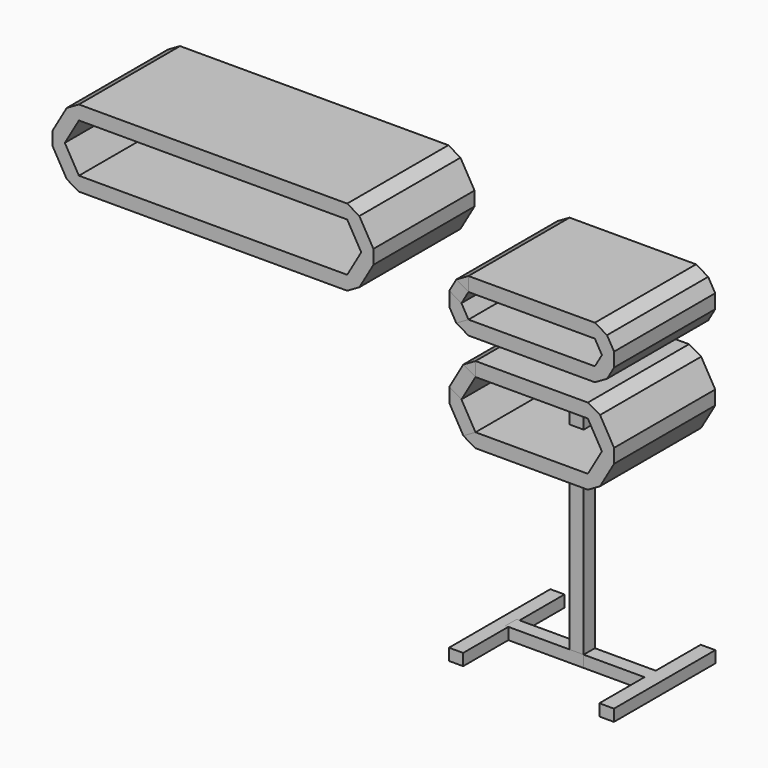
from build123d import *

# Parameters (mm, degrees)
F0_W      = 30
F0_H      = 15
F0_W_2    = 270
F0_H_2    = 30
F2_DEPTH  = 270
F3_W      = 30
F3_H      = 30
F4_DEPTH  = 600
F5_W      = 30.2779739723
F5_H      = 30
F5_H_2    = 120.6070542336
F5_H_3    = 120
F6_DEPTH  = 25
F5_W_2    = 129.9923121929
F5_W_3    = 31.1954915524
F7_DEPTH  = 167
F8_DEPTH  = 270
F0_W_3    = 120
F9_DEPTH  = 270
F0_W_4    = 573.0000723706
F10_DEPTH = 270


with BuildPart() as f2:
    # F0 (on Front) → F2 (new body)
    with BuildSketch(Plane.XZ):
        Polygon((270, -81.9615242271), (295.9807621135, -66.9615242271), (270, -51.9615242271), align=None)
        Polygon((270, 0), (295.9807621135, 15), (270, 30), align=None)
        Polygon((150, -81.9615242271), (270, -81.9615242271), (270, -51.9615242271), (240, -51.9615242271), (210, -51.9615242271), (180, -51.9615242271), (150, -51.9615242271), (150, -66.9615242271), align=None)
        with Locations((135, -59.4615242271)):
            Rectangle(F0_W, F0_H)
        Polygon((285, -25.9807621135), (310.9807621135, -40.9807621135), (310.9807621135, -10.9807621135), align=None)
        Polygon((0, -81.9615242271), (120, -81.9615242271), (120, -66.9615242271), (120, -51.9615242271), (90, -51.9615242271), (60, -51.9615242271), (30, -51.9615242271), (0, -51.9615242271), align=None)
        Polygon((135, -81.9615242271), (150, -81.9615242271), (150, -66.9615242271), (120, -66.9615242271), (120, -81.9615242271), align=None)
        Polygon((270, -51.9615242271), (295.9807621135, -66.9615242271), (310.9807621135, -40.9807621135), (285, -25.9807621135), align=None)
        Polygon((-25.9807621135, -66.9615242271), (0, -81.9615242271), (0, -51.9615242271), align=None)
        Polygon((285, -25.9807621135), (310.9807621135, -10.9807621135), (295.9807621135, 15), (270, 0), align=None)
        with Locations((135, 15)):
            Rectangle(F0_W_2, F0_H_2)
    extrude(amount=F2_DEPTH)

    # F3 (on face) → F4 (join)
    with BuildSketch(Plane(origin=(0, 0, -81.9615242271), x_dir=(1, 0, 0), z_dir=(0, 0, -1))):
        with Locations((135, 135)):
            Rectangle(F3_W, F3_H)
    extrude(amount=F4_DEPTH)


with BuildPart() as f2b:
    # F0 (on Front) → F2, piece 2 (new body)
    with BuildSketch(Plane.XZ):
        Polygon((-10.9807621135, -273.9422689571), (15, -258.9422689571), (-15, -206.98074473), (-40.9807621135, -221.98074473), align=None)
        Polygon((-40.9807621135, -221.98074473), (-15, -206.98074473), (-40.9807621135, -191.98074473), align=None)
    extrude(amount=F2_DEPTH)


with BuildPart() as f2c:
    # F0 (on Front) → F2, piece 3 (new body)
    with BuildSketch(Plane.XZ):
        Polygon((-15, -25.9807621135), (0, 0), (-25.9807621135, 15), (-40.9807621135, -10.9807621135), align=None)
    extrude(amount=F2_DEPTH)


with BuildPart() as f2d:
    # F0 (on Front) → F2, piece 4 (new body)
    with BuildSketch(Plane.XZ):
        Polygon((15, -155.019220503), (15, -125.019220503), (-10.9807621135, -140.019220503), align=None)
    extrude(amount=F2_DEPTH)


with BuildPart() as f6:
    # F5 (on face) → F6 (new body)
    with BuildSketch(Plane(origin=(0, 0, -681.9615242271), x_dir=(1, 0, 0), z_dir=(0, 0, -1))):
        with Locations((-25.9986934252, 135)):
            Rectangle(F5_W, F5_H)
        with Locations((-25.9986934252, 210.3035271168)):
            Rectangle(F5_W, F5_H_2)
        with Locations((-25.9986934252, 60)):
            Rectangle(F5_W, F5_H_3)
    extrude(amount=F6_DEPTH)


with BuildPart() as f6b:
    # F5 (on face) → F6, piece 2 (new body)
    with BuildSketch(Plane(origin=(0, 0, -681.9615242271), x_dir=(1, 0, 0), z_dir=(0, 0, -1))):
        with Locations((214.9961560965, 135)):
            Rectangle(F5_W_2, F5_H)
        with Locations((295.5900579691, 210.3035271168)):
            Rectangle(F5_W_3, F5_H_2)
        with Locations((295.5900579691, 135)):
            Rectangle(F5_W_3, F5_H)
        with Locations((295.5900579691, 60)):
            Rectangle(F5_W_3, F5_H_3)
    extrude(amount=F6_DEPTH)


with BuildPart() as f7:
    # F7 (new): a face of the model
    f7_faces = [f6b.part.faces().sort_by_distance(p)[0] for p in [
        (150, -135, -694.4615242271),
    ]]
    extrude(f7_faces, amount=F7_DEPTH)


with BuildPart() as f8:
    # F0 (on Front) → F8 (new body)
    with BuildSketch(Plane.XZ):
        Polygon((-25.9807621135, 15), (0, 0), (0, 30), align=None)
    extrude(amount=F8_DEPTH)


with BuildPart() as f8b:
    # F0 (on Front) → F8, piece 2 (new body)
    with BuildSketch(Plane.XZ):
        Polygon((-40.9807621135, -40.9807621135), (-15, -25.9807621135), (-40.9807621135, -10.9807621135), align=None)
        Polygon((0, -51.9615242271), (-15, -25.9807621135), (-40.9807621135, -40.9807621135), (-25.9807621135, -66.9615242271), align=None)
    extrude(amount=F8_DEPTH)


with BuildPart() as f9:
    # F0 (on Front) → F9 (new body)
    with BuildSketch(Plane.XZ):
        with Locations((75, -140.019220503)):
            Rectangle(F0_W_3, F0_H_2)
        with Locations((195, -140.019220503)):
            Rectangle(F0_W_3, F0_H_2)
        Polygon((280.9807621135, -140.019220503), (255, -125.019220503), (255, -155.019220503), align=None)
        Polygon((280.9807621135, -140.019220503), (255, -155.019220503), (285, -206.98074473), (310.9807621135, -191.98074473), align=None)
        Polygon((285, -206.98074473), (255, -258.9422689571), (280.9807621135, -273.9422689571), (310.9807621135, -221.98074473), align=None)
        with Locations((195, -273.9422689571)):
            Rectangle(F0_W_3, F0_H_2)
        with Locations((75, -273.9422689571)):
            Rectangle(F0_W_3, F0_H_2)
        Polygon((15, -288.9422689571), (15, -258.9422689571), (-10.9807621135, -273.9422689571), align=None)
        Polygon((280.9807621135, -273.9422689571), (255, -258.9422689571), (255, -288.9422689571), align=None)
        Polygon((310.9807621135, -191.98074473), (285, -206.98074473), (310.9807621135, -221.98074473), align=None)
    extrude(amount=F9_DEPTH)


with BuildPart() as f9b:
    # F0 (on Front) → F9, piece 2 (new body)
    with BuildSketch(Plane.XZ):
        Polygon((-15, -206.98074473), (15, -155.019220503), (-10.9807621135, -140.019220503), (-40.9807621135, -191.98074473), align=None)
    extrude(amount=F9_DEPTH)


with BuildPart() as f10:
    # F0 (on Front) → F10 (new body)
    with BuildSketch(Plane.XZ):
        Polygon((-887.9806089401, 15), (-887.9806089401, -15), (-861.9998468266, 0), align=None)
        Polygon((-831.9998468266, 81.9615242271), (-857.9806089401, 66.9615242271), (-831.9998468266, 51.9615242271), align=None)
        Polygon((-831.9998468266, -51.9615242271), (-857.9806089401, -66.9615242271), (-831.9998468266, -81.9615242271), align=None)
        Polygon((-258.999774456, 81.9615242271), (-258.999774456, 51.9615242271), (-233.0190123425, 66.9615242271), align=None)
        Polygon((-258.999774456, -51.9615242271), (-258.999774456, -81.9615242271), (-233.0190123425, -66.9615242271), align=None)
        Polygon((-203.0190123425, 15), (-228.999774456, 0), (-203.0190123425, -15), align=None)
        Polygon((-887.9806089401, -15), (-857.9806089401, -66.9615242271), (-831.9998468266, -51.9615242271), (-861.9998468266, 0), align=None)
        Polygon((-857.9806089401, 66.9615242271), (-887.9806089401, 15), (-861.9998468266, 0), (-831.9998468266, 51.9615242271), align=None)
        with Locations((-545.4998106413, -66.9615242271)):
            Rectangle(F0_W_4, F0_H_2)
        Polygon((-228.999774456, 0), (-258.999774456, -51.9615242271), (-233.0190123425, -66.9615242271), (-203.0190123425, -15), align=None)
        Polygon((-258.999774456, 51.9615242271), (-228.999774456, 0), (-203.0190123425, 15), (-233.0190123425, 66.9615242271), align=None)
        with Locations((-545.4998106413, 66.9615242271)):
            Rectangle(F0_W_4, F0_H_2)
    extrude(amount=F10_DEPTH)


solid = Compound([f2.part, f2b.part, f2c.part, f2d.part, f6.part, f6b.part, f7.part, f8.part, f8b.part, f9.part, f9b.part, f10.part])
